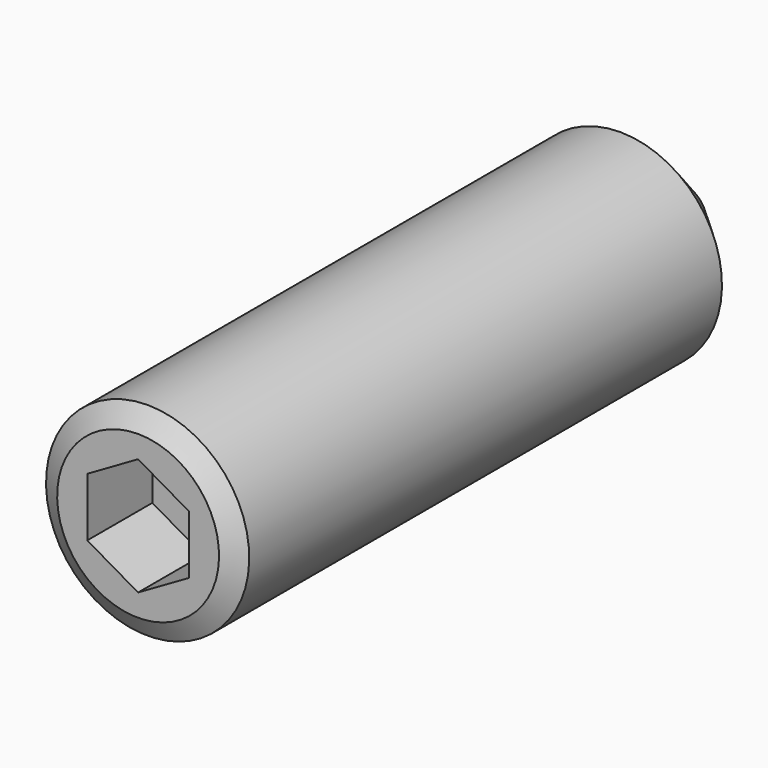
from build123d import *

# Parameters (mm, degrees)
POCKET_DEPTH = 1.2


with BuildPart() as part:
    # Sketch → Revolution (revolve)
    with BuildSketch(Plane.YZ):
        Polygon((0, 0), (0, 1.195), (0.176092, 1.5), (8.9, 1.5), (10, 0.4), (10, 0), align=None)
    revolve(axis=Axis((0, 0, 0), (0, 1, 0)))

    # Sketch001 → Pocket (cut)
    with BuildSketch(Plane(origin=(0, 0, 0), x_dir=(0, 0, -1), z_dir=(0, -1, 0))):
        Polygon((-0.433013, -0.75), (0.433013, -0.75), (0.866025, 0), (0.433013, 0.75), (-0.433013, 0.75), (-0.866025, 0), align=None)
    extrude(amount=-POCKET_DEPTH, mode=Mode.SUBTRACT)


solid = part.part
